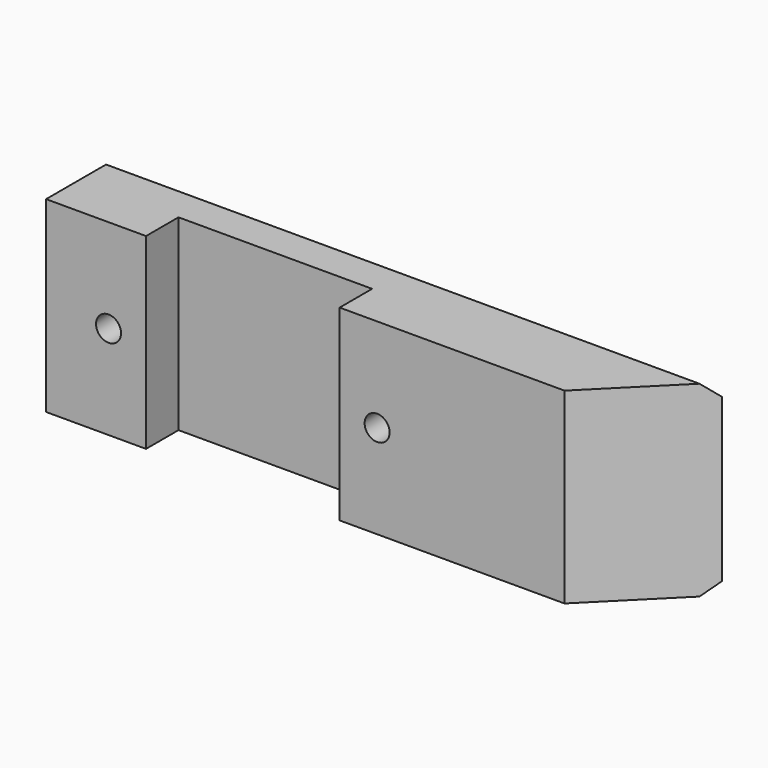
from build123d import *

# Parameters (mm, degrees)
PAD004_DEPTH            = 7.5
SKETCH007_R             = 1
POCKET002_DEPTH         = 7.001
CHAMFER006_SIZE         = 1
CHAMFER005_SIZE         = 1
BODY003_ROLL_ANGLE      = 180
BODY003_PLACEMENT_ANGLE = 90


with BuildPart() as part:
    # Sketch006 → Pad004 (new body, symmetric)
    with BuildSketch(Plane.XY):
        Polygon((0, 0), (0, -18), (3.25, -18), (3.25, -33.5), (0, -33.5), (0, -41.5), (7, -41.5), (7, 7), align=None)
    extrude(amount=PAD004_DEPTH, both=True)

    # Sketch007 (on Face7 of Pad004) → Pocket002 (cut, through all)
    with BuildSketch(Plane.YZ.offset(7)):
        with Locations((-36.5, 0)):
            Circle(SKETCH007_R)
        with Locations((-15, 0)):
            Circle(SKETCH007_R)
    extrude(amount=-POCKET002_DEPTH, mode=Mode.SUBTRACT)

    # Chamfer006
    chamfer006_edges = [part.edges().sort_by_distance(p)[0] for p in [
        (7, -37.5, 0),
        (7, -16, 0),
    ]]
    chamfer(chamfer006_edges, length=CHAMFER006_SIZE)

    # Chamfer005
    chamfer005_edges = [part.edges().sort_by_distance(p)[0] for p in [
        (7, -17.25, 7.5),
        (7, -41.5, 0),
        (7, -17.25, -7.5),
    ]]
    chamfer(chamfer005_edges, length=CHAMFER005_SIZE)


with BuildPart() as part_1:
    # Body003 roll: moved
    add(part.part.rotate(Axis((0, 0, 0), (1, 0, 0)), BODY003_ROLL_ANGLE))


with BuildPart() as part_2:
    # Body003 placement: moved
    add(part_1.part.rotate(Axis((0, 0, 0), (0, 0, 1)), BODY003_PLACEMENT_ANGLE))


solid = part_2.part
